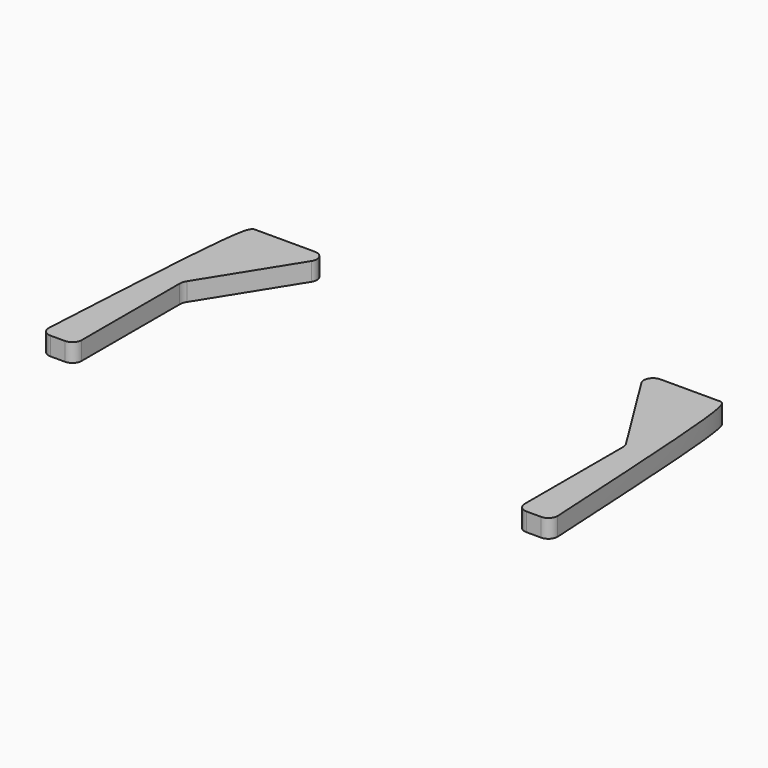
from build123d import *

# Parameters (mm, degrees)
F3_DEPTH = 10
F5_R     = 6.5
F6_DEPTH = 1


with BuildPart() as f3:
    # F2 (on Top) → F3 (new body)
    with BuildSketch(Plane.XY):
        with BuildLine():
            ThreePointArc((-139, -66), (-137.5355339059, -69.5355339059), (-134, -71))
            Line((-134, -71), (-126, -71))
            ThreePointArc((-126, -71), (-122.4644660941, -69.5355339059), (-121, -66))
            Line((-121, -66), (-121, 0.8747540957))
            ThreePointArc((-121, 0.8747540957), (-120.7288400494, 2.8041870666), (-119.9363681173, 4.5841386236))
            Line((-119.9363681173, 4.5841386236), (-90.0892335764, 52.3504396229))
            ThreePointArc((-90.0892335764, 52.3504396229), (-89.9564082559, 57.4240666363), (-94.3294965174, 60))
            Line((-94.3294965174, 60), (-123, 60))
            Line((-123, 60), (-127.5, 60))
            add(Edge.make_bspline(
                [(-127.5, 60), (-128.5309515502, 59.4252718402), (-132.3109857139, 55.8750775163), (-135.4628480418, -1.9731064327), (-139, -66)],
                knots=[0, 0, 0, 0, 0.1423154771, 1, 1, 1, 1], degree=3))
        make_face()
    extrude(amount=F3_DEPTH)

    # F5 (on face) → F6 (cut)
    with BuildSketch(Plane(origin=(0, 0, 0), x_dir=(1, 0, 0), z_dir=(0, 0, -1))):
        with Locations((-129.6166181564, 62.2083842754)):
            Circle(F5_R)
        with Locations((-100.6180867553, -51.8119037151)):
            Circle(F5_R)
        with Locations((-122.0875009894, -51.8119037151)):
            Circle(F5_R)
    extrude(amount=-F6_DEPTH, mode=Mode.SUBTRACT)


with BuildPart() as f7_1:
    # F7: instance of F3
    add(f3.part.mirror(Plane.YZ))


solid = Compound([f3.part, f7_1.part])
